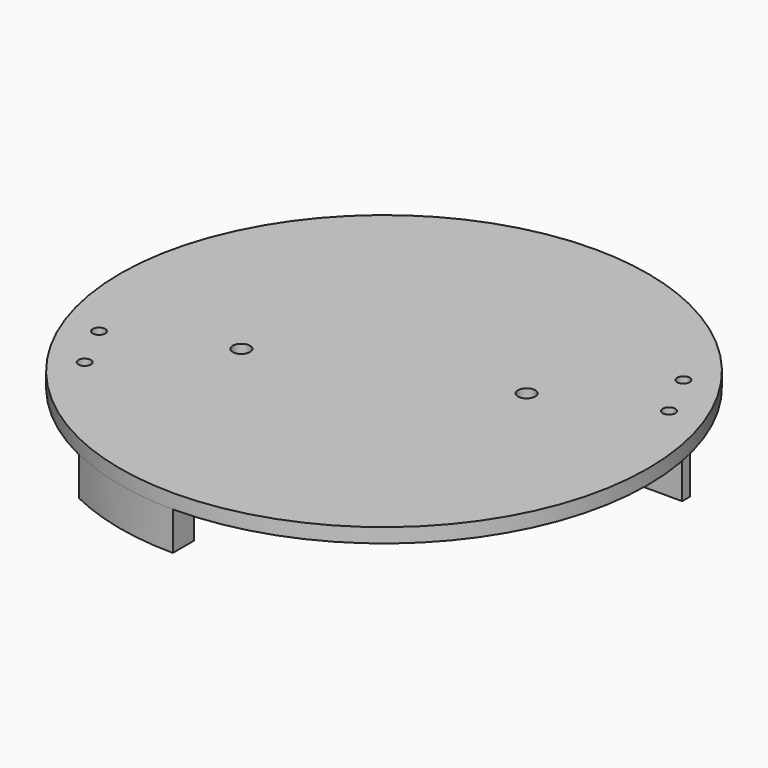
from build123d import *

# Parameters (mm, degrees)
SKETCH_R      = 55
PAD_DEPTH     = 3
SKETCH003_R   = 1.3
SKETCH003_R_2 = 1.8
POCKET_DEPTH  = 5
PAD001_DEPTH  = 11
PAD002_DEPTH  = 11


with BuildPart() as part:
    # Sketch → Pad (new body)
    with BuildSketch(Plane.XY):
        Circle(SKETCH_R)
    extrude(amount=PAD_DEPTH)

    # Sketch003 → Pocket (cut)
    with BuildSketch(Plane.XY.offset(3)):
        with Locations((-45, -18)):
            Circle(SKETCH003_R)
        with Locations((45, 18)):
            Circle(SKETCH003_R)
        with Locations((-40, -28)):
            Circle(SKETCH003_R)
        with Locations((40, 28)):
            Circle(SKETCH003_R)
        with Locations((-23.022469, -8.379494)):
            Circle(SKETCH003_R_2)
        with Locations((23.022469, 8.379494)):
            Circle(SKETCH003_R_2)
    extrude(amount=-POCKET_DEPTH, mode=Mode.SUBTRACT)

    # Sketch001 (on Face3 of Pad) → Pad001 (join)
    with BuildSketch(Plane.XY.offset(3)):
        Polygon((33.500008, 0), (33.500008, 13), (53.345406, 13), (53.345406, 11), (35.5, 11), (35.5, -0.005684), (35.5, -12), (33.500008, -12), align=None)
        Polygon((-33.5, 0), (-33.5, -13), (-53.293575, -13), (-53.293575, -11), (-35.5, -11), (-35.5, 0.001212), (-35.5, 12), (-33.5, 12), align=None)
    extrude(amount=-PAD001_DEPTH)

    # Sketch002 → Pad002 (join)
    with BuildSketch(Plane.XY.offset(3)):
        with BuildLine():
            ThreePointArc((-23.973944, -49.5), (-12.298374, -53.607369), (0, -55))
            Line((0, -49.5), (0, -55))
            Line((-23.973944, -49.5), (0, -49.5))
        make_face()
        with BuildLine():
            ThreePointArc((23.973944, 49.5), (12.298374, 53.607369), (0, 55))
            Line((0, 49.5), (0, 55))
            Line((23.973944, 49.5), (0, 49.5))
        make_face()
    extrude(amount=-PAD002_DEPTH)


solid = part.part
